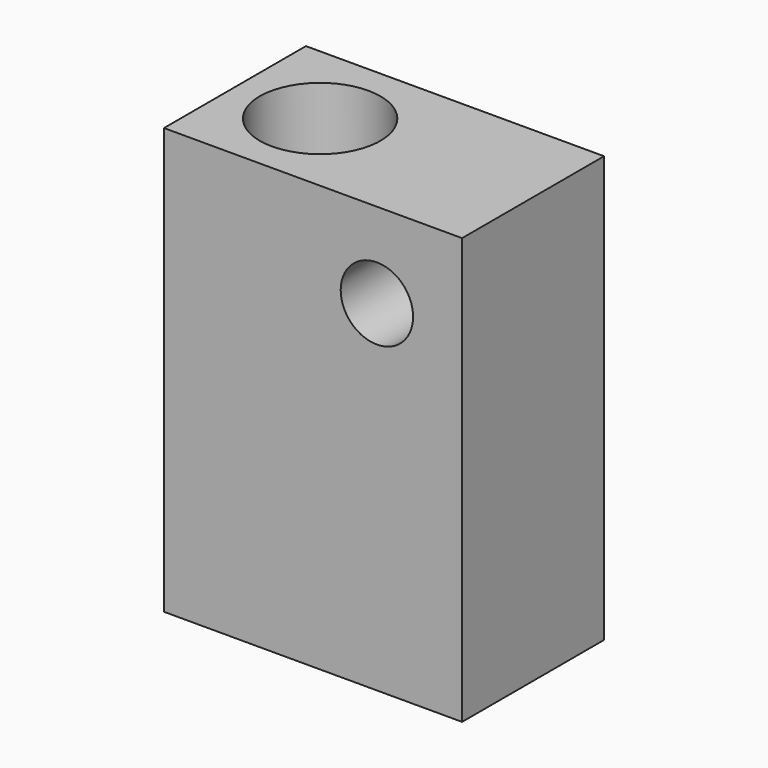
from build123d import *

# Parameters (mm, degrees)
F0_W     = 42
F0_H     = 60
F1_DEPTH = 25
F4_D     = 10.2
F4_DEPTH = 100
F4_TIP   = 3.064389157
F5_D     = 10.2
F5_DEPTH = 100
F5_TIP   = 3.064389157
F6_D     = 17
F6_DEPTH = 35
F6_TIP   = 5.1073152617


with BuildPart() as f1:
    # F0 (on Front) → F1 (new body)
    with BuildSketch(Plane.XZ):
        with Locations((-52.5741710365, 48.0550478399)):
            Rectangle(F0_W, F0_H)
    extrude(amount=F1_DEPTH)

    # F4
    with Locations(Plane.XZ.offset(25)):
        with Locations((-43.5741710365, 66.0550478399)):
            Hole(F4_D / 2, depth=F4_DEPTH)
            with Locations((0, 0, -(F4_DEPTH + F4_TIP / 2))):  # 118° drill point
                Cone(0, F4_D / 2, F4_TIP, mode=Mode.SUBTRACT)

    # F5
    with Locations(Plane.XY.offset(78.0550478399)):
        with Locations((-61.5741710365, -12.5)):
            Hole(F5_D / 2, depth=F5_DEPTH)
            with Locations((0, 0, -(F5_DEPTH + F5_TIP / 2))):  # 118° drill point
                Cone(0, F5_D / 2, F5_TIP, mode=Mode.SUBTRACT)

    # F6
    with Locations(Plane.XY.offset(78.0550478399)):
        with Locations((-61.5741710365, -12.5)):
            Hole(F6_D / 2, depth=F6_DEPTH)
            with Locations((0, 0, -(F6_DEPTH + F6_TIP / 2))):  # 118° drill point
                Cone(0, F6_D / 2, F6_TIP, mode=Mode.SUBTRACT)


solid = f1.part
